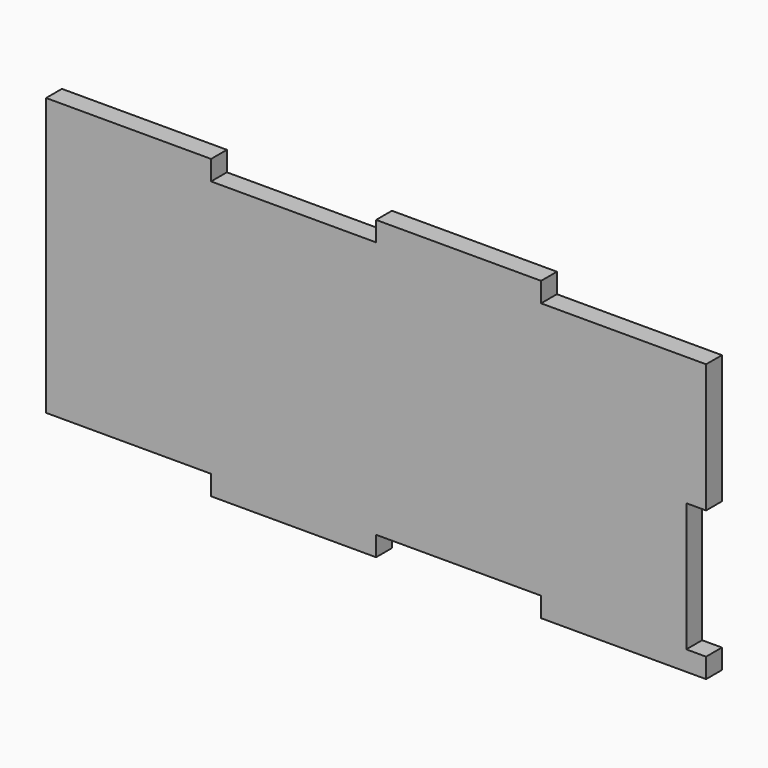
from build123d import *

# Parameters (mm, degrees)
RECTANGLE130_AS_DRAWN_W                      = 25
RECTANGLE130_AS_DRAWN_H                      = 3
EXTRUDE152_DEPTH                             = 3
EXTRUDE152_ONTO_RECTANGLE130_ROLL_ANGLE      = -90
EXTRUDE152_ONTO_RECTANGLE130_PLACEMENT_ANGLE = 180
RECTANGLE128_AS_DRAWN_W                      = 25
RECTANGLE128_AS_DRAWN_H                      = 3
EXTRUDE153_DEPTH                             = 3
EXTRUDE153_ONTO_RECTANGLE128_ROLL_ANGLE      = -90
EXTRUDE153_ONTO_RECTANGLE128_PLACEMENT_ANGLE = 180
RECTANGLE132_AS_DRAWN_W                      = 3
RECTANGLE132_AS_DRAWN_H                      = 19.5
EXTRUDE166_DEPTH                             = 3
EXTRUDE166_ONTO_RECTANGLE132_ROLL_ANGLE      = -90
EXTRUDE166_ONTO_RECTANGLE132_PLACEMENT_ANGLE = 180
RECTANGLE127_AS_DRAWN_W                      = 25
RECTANGLE127_AS_DRAWN_H                      = 3
EXTRUDE147_DEPTH                             = 3
EXTRUDE147_ONTO_RECTANGLE127_ROLL_ANGLE      = -90
EXTRUDE147_ONTO_RECTANGLE127_PLACEMENT_ANGLE = 180
RECTANGLE129_AS_DRAWN_W                      = 25
RECTANGLE129_AS_DRAWN_H                      = 3
EXTRUDE149_DEPTH                             = 3
EXTRUDE149_ONTO_RECTANGLE129_ROLL_ANGLE      = -90
EXTRUDE149_ONTO_RECTANGLE129_PLACEMENT_ANGLE = 180
BOX045_W                                     = 100
BOX045_H                                     = 3
BOX045_DEPTH                                 = 45


with BuildPart() as extrude152:
    # Rectangle130 as drawn → Extrude152 (new)
    with BuildSketch(Plane.XY):
        with Locations((12.5, 1.5)):
            Rectangle(RECTANGLE130_AS_DRAWN_W, RECTANGLE130_AS_DRAWN_H)
    extrude(amount=-EXTRUDE152_DEPTH)


with BuildPart() as extrude152_1:
    # Extrude152 onto Rectangle130 roll: moved
    add(extrude152.part.rotate(Axis((0, 0, 0), (1, 0, 0)), EXTRUDE152_ONTO_RECTANGLE130_ROLL_ANGLE))


with BuildPart() as extrude152_2:
    # Extrude152 onto Rectangle130 placement: moved
    add(extrude152_1.part.moved(Location((39, -77, -70))).rotate(Axis((39, -77, -70), (0, 0, 1)), EXTRUDE152_ONTO_RECTANGLE130_PLACEMENT_ANGLE))


with BuildPart() as extrude152_3:
    # Extrude152 placement: moved
    add(extrude152_2.part.moved(Location((0, 0, -42))))


with BuildPart() as extrude153:
    # Rectangle128 as drawn → Extrude153 (new)
    with BuildSketch(Plane.XY):
        with Locations((12.5, 1.5)):
            Rectangle(RECTANGLE128_AS_DRAWN_W, RECTANGLE128_AS_DRAWN_H)
    extrude(amount=-EXTRUDE153_DEPTH)


with BuildPart() as extrude153_1:
    # Extrude153 onto Rectangle128 roll: moved
    add(extrude153.part.rotate(Axis((0, 0, 0), (1, 0, 0)), EXTRUDE153_ONTO_RECTANGLE128_ROLL_ANGLE))


with BuildPart() as extrude153_2:
    # Extrude153 onto Rectangle128 placement: moved
    add(extrude153_1.part.moved(Location((89, -77, -70))).rotate(Axis((89, -77, -70), (0, 0, 1)), EXTRUDE153_ONTO_RECTANGLE128_PLACEMENT_ANGLE))


with BuildPart() as extrude153_3:
    # Extrude153 placement: moved
    add(extrude153_2.part.moved(Location((0, 0, -42))))


with BuildPart() as extrude166:
    # Rectangle132 as drawn → Extrude166 (new)
    with BuildSketch(Plane.XY):
        with Locations((1.5, 9.75)):
            Rectangle(RECTANGLE132_AS_DRAWN_W, RECTANGLE132_AS_DRAWN_H)
    extrude(amount=-EXTRUDE166_DEPTH)


with BuildPart() as extrude166_1:
    # Extrude166 onto Rectangle132 roll: moved
    add(extrude166.part.rotate(Axis((0, 0, 0), (1, 0, 0)), EXTRUDE166_ONTO_RECTANGLE132_ROLL_ANGLE))


with BuildPart() as extrude166_2:
    # Extrude166 onto Rectangle132 placement: moved
    add(extrude166_1.part.moved(Location((114, -77, -92.5))).rotate(Axis((114, -77, -92.5), (0, 0, 1)), EXTRUDE166_ONTO_RECTANGLE132_PLACEMENT_ANGLE))


with BuildPart() as extrude147:
    # Rectangle127 as drawn → Extrude147 (new)
    with BuildSketch(Plane.XY):
        with Locations((12.5, 1.5)):
            Rectangle(RECTANGLE127_AS_DRAWN_W, RECTANGLE127_AS_DRAWN_H)
    extrude(amount=-EXTRUDE147_DEPTH)


with BuildPart() as extrude147_1:
    # Extrude147 onto Rectangle127 roll: moved
    add(extrude147.part.rotate(Axis((0, 0, 0), (1, 0, 0)), EXTRUDE147_ONTO_RECTANGLE127_ROLL_ANGLE))


with BuildPart() as extrude147_2:
    # Extrude147 onto Rectangle127 placement: moved
    add(extrude147_1.part.moved(Location((114, -77, -70))).rotate(Axis((114, -77, -70), (0, 0, 1)), EXTRUDE147_ONTO_RECTANGLE127_PLACEMENT_ANGLE))


with BuildPart() as fusion064026:
    # Rectangle129 as drawn → Extrude149 (new)
    with BuildSketch(Plane.XY):
        with Locations((12.5, 1.5)):
            Rectangle(RECTANGLE129_AS_DRAWN_W, RECTANGLE129_AS_DRAWN_H)
    extrude(amount=-EXTRUDE149_DEPTH)


with BuildPart() as fusion064026_1:
    # Extrude149 onto Rectangle129 roll: moved
    add(fusion064026.part.rotate(Axis((0, 0, 0), (1, 0, 0)), EXTRUDE149_ONTO_RECTANGLE129_ROLL_ANGLE))


with BuildPart() as fusion064026_2:
    # Extrude149 onto Rectangle129 placement: moved
    add(fusion064026_1.part.moved(Location((64, -77, -70))).rotate(Axis((64, -77, -70), (0, 0, 1)), EXTRUDE149_ONTO_RECTANGLE129_PLACEMENT_ANGLE))

    # Fusion064026: union Extrude152, Extrude153, Extrude166, Extrude147
    add(extrude152_3.part)
    add(extrude153_3.part)
    add(extrude166_2.part)
    add(extrude147_2.part)


with BuildPart() as fusion064026_3:
    # Fusion064026 placement: moved
    add(fusion064026_2.part.moved(Location((0, 152, 0))))


with BuildPart() as cut035015:
    # Box045 → Box045 (new body)
    with BuildSketch(Plane(origin=(14, 75, -115), x_dir=(1, 0, 0), z_dir=(0, 0, 1))):
        with Locations((50, 1.5)):
            Rectangle(BOX045_W, BOX045_H)
    extrude(amount=BOX045_DEPTH)

    # Cut035015: cut Fusion064026
    add(fusion064026_3.part, mode=Mode.SUBTRACT)


solid = cut035015.part
